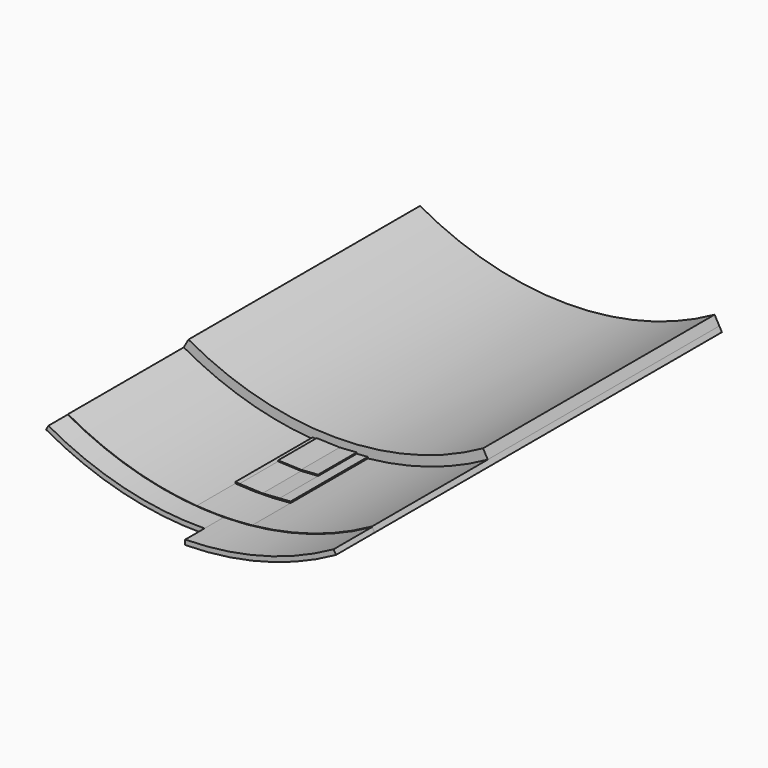
from build123d import *

# Parameters (mm, degrees)
F1_DEPTH = 100
F2_DEPTH = 95
F3_DEPTH = 90
F4_DEPTH = 80
F5_DEPTH = 70
F6_DEPTH = 60


with BuildPart() as f1:
    # F0 (on Front) → F1 (new body)
    with BuildSketch(Plane.XZ):
        with BuildLine():
            ThreePointArc((29.519392, 14.226209), (14.652679, 8.187611), (-1.243566, 5.998271))
            Line((-1.243566, 5.998271), (-1.243566, 4.995558))
            ThreePointArc((-1.243566, 4.995558), (14.906982, 7.217176), (30.011451, 13.351573))
            Line((30.011451, 13.351573), (29.519392, 14.226209))
        make_face()
    extrude(amount=F1_DEPTH)


with BuildPart() as f2:
    # F0 (on Front) → F2 (new body)
    with BuildSketch(Plane.XZ):
        with BuildLine():
            Line((-1.243566, 4.995558), (-1.243566, 5.998271))
            ThreePointArc((-1.243566, 5.998271), (-17.961008, 7.984297), (-33.598137, 14.22107))
            Line((-33.598137, 14.22107), (-34.087008, 13.347566))
            ThreePointArc((-34.087008, 13.347566), (-18.213747, 7.014798), (-1.243566, 4.995558))
        make_face()
    extrude(amount=F2_DEPTH)


with BuildPart() as f3:
    # F0 (on Front) → F3 (new body)
    with BuildSketch(Plane.XZ):
        with BuildLine():
            ThreePointArc((-33.598137, 14.22107), (-17.961008, 7.984297), (-1.243566, 5.998271))
            ThreePointArc((-1.243566, 5.998271), (14.652679, 8.187611), (29.519392, 14.226209))
            Line((29.519392, 14.226209), (30.011451, 13.351573))
            Line((30.011451, 13.351573), (29.472458, 14.313632))
            Line((29.472458, 14.313632), (29.408035, 14.277376))
            ThreePointArc((29.408035, 14.277376), (17.41231, 9.095712), (4.618581, 6.437226))
            ThreePointArc((4.618581, 6.437226), (-1.116637, 6.098977), (-6.859208, 6.272245))
            ThreePointArc((-6.859208, 6.272245), (-20.643592, 8.831314), (-33.549788, 14.30746))
            Line((-33.549788, 14.30746), (-33.598137, 14.22107))
        make_face()
    extrude(amount=F3_DEPTH)


with BuildPart() as f4:
    # F0 (on Front) → F4 (new body)
    with BuildSketch(Plane.XZ):
        with BuildLine():
            Line((-6.859208, 6.554838), (-6.859208, 6.272245))
            ThreePointArc((-6.859208, 6.272245), (-1.116637, 6.098977), (4.618581, 6.437226))
            Line((4.618581, 6.437226), (4.598699, 6.722107))
            Line((4.598699, 6.722107), (2.322486, 6.563243))
            Line((2.322486, 6.563243), (-1.221714, 6.315883))
            Line((-1.221714, 6.315883), (-5.987574, 6.517892))
            Line((-5.987574, 6.517892), (-6.859208, 6.554838))
        make_face()
    extrude(amount=F4_DEPTH)


with BuildPart() as f5:
    # F0 (on Front) → F5 (new body)
    with BuildSketch(Plane.XZ):
        Polygon((-5.978918, 6.722107), (-5.987574, 6.517892), (-1.221714, 6.315883), (2.322486, 6.563243), (2.30589, 6.80104), (-1.221714, 6.554838), align=None)
    extrude(amount=F5_DEPTH)


with BuildPart() as f6:
    # F0 (on Front) → F6 (new body)
    with BuildSketch(Plane.XZ):
        with BuildLine():
            Line((-32.573023, 16.05272), (-33.549788, 14.30746))
            ThreePointArc((-33.549788, 14.30746), (-20.643592, 8.831314), (-6.859208, 6.272245))
            Line((-6.859208, 6.272245), (-6.859208, 6.554838))
            Line((-6.859208, 6.554838), (-5.987574, 6.517892))
            Line((-5.987574, 6.517892), (-5.978918, 6.722107))
            Line((-5.978918, 6.722107), (-1.221714, 6.554838))
            Line((-1.221714, 6.554838), (2.30589, 6.80104))
            Line((2.30589, 6.80104), (2.322486, 6.563243))
            Line((2.322486, 6.563243), (4.598699, 6.722107))
            Line((4.598699, 6.722107), (4.618581, 6.437226))
            ThreePointArc((4.618581, 6.437226), (17.41231, 9.095712), (29.408035, 14.277376))
            Line((29.408035, 14.277376), (29.472458, 14.313632))
            Line((29.472458, 14.313632), (28.495025, 16.058276))
            ThreePointArc((28.495025, 16.058276), (-2.038275, 8.092313), (-32.573023, 16.05272))
        make_face()
    extrude(amount=F6_DEPTH)


solid = Compound([f1.part, f2.part, f3.part, f4.part, f5.part, f6.part])
